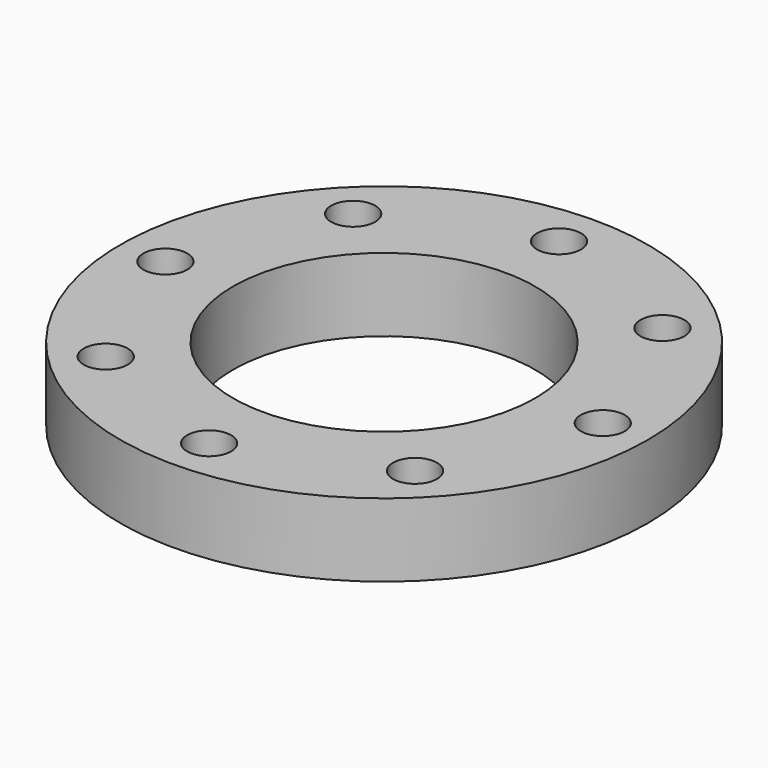
from build123d import *

# Parameters (mm, degrees)
F0_R     = 114.3
F0_R_2   = 65.48374
F1_DEPTH = 15.875
F2_R     = 9.525
F3_DEPTH = 31.751


with BuildPart() as f1:
    # F0 (on Top) → F1 (new body, symmetric)
    with BuildSketch(Plane.XY):
        Circle(F0_R)
        Circle(F0_R_2, mode=Mode.SUBTRACT)
    extrude(amount=F1_DEPTH, both=True)

    # F2 (on face) → F3 (cut, through all)
    with BuildSketch(Plane.XY.offset(15.875)):
        with Locations((0, 94.700621)):
            Circle(F2_R)
        with Locations((-66.963451, 66.963451)):
            Circle(F2_R)
        with Locations((-94.700621, 0)):
            Circle(F2_R)
        with Locations((-66.963451, -66.963451)):
            Circle(F2_R)
        with Locations((0, -94.700621)):
            Circle(F2_R)
        with Locations((66.963451, -66.963451)):
            Circle(F2_R)
        with Locations((94.700621, 0)):
            Circle(F2_R)
        with Locations((66.963451, 66.963451)):
            Circle(F2_R)
    extrude(amount=-F3_DEPTH, mode=Mode.SUBTRACT)


solid = f1.part
